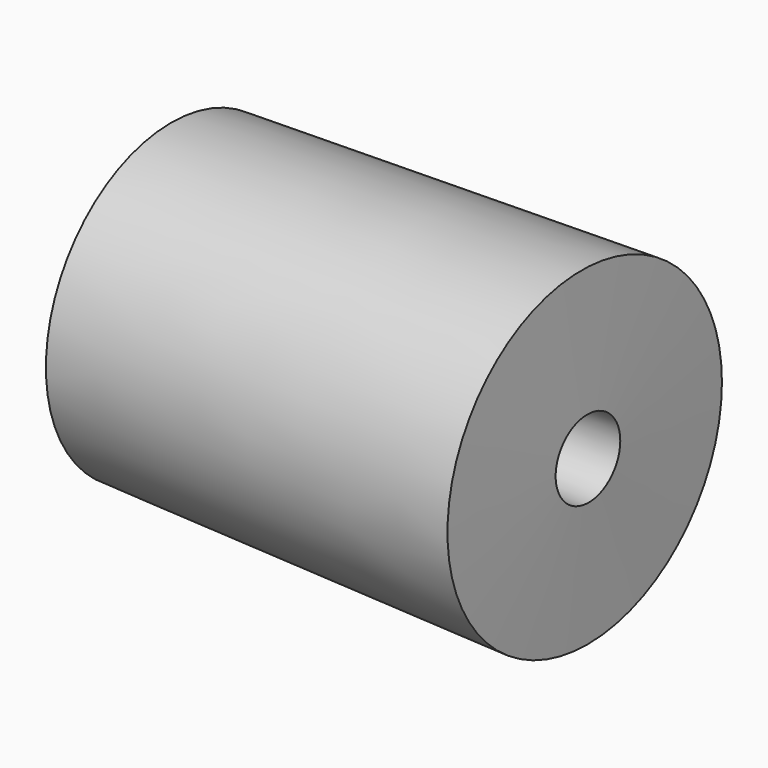
from build123d import *


with BuildPart() as f1:
    # F0 (on Top) → F1 (revolve)
    with BuildSketch(Plane.XY):
        Polygon((-12.367387, 3.325909), (0, 3.002057), (0, 12), (-15.092844, 12), (-15.092844, 3.397277), align=None)
        Polygon((0, 3.002057), (0, 2.5), (16.290502, 2.5), (16.290502, 12), (0, 12), align=None)
    revolve(axis=Axis((-6.948064, 0.181941, 0), (-0.999657, 0.026177, 0)))


solid = f1.part
